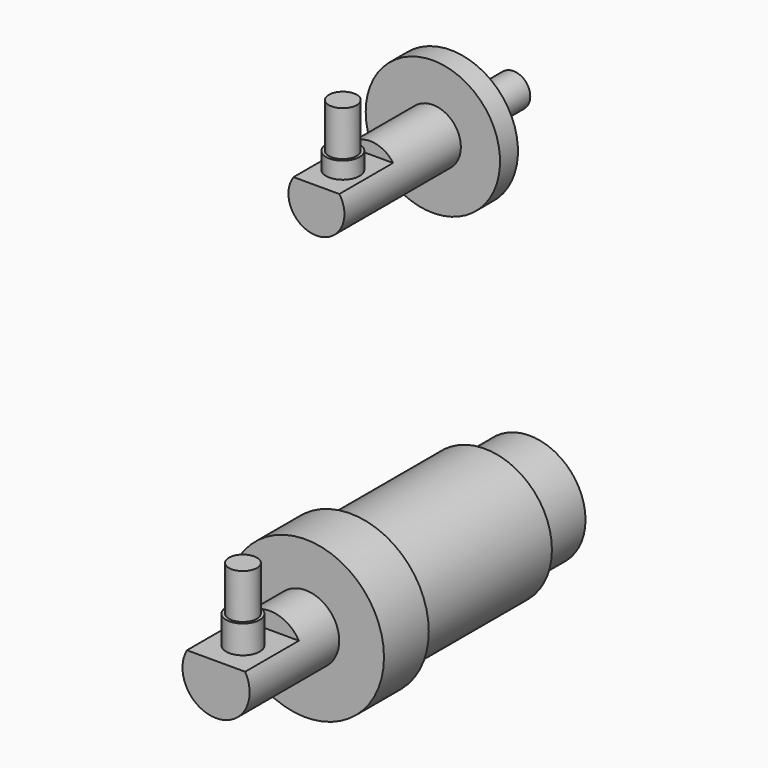
from build123d import *

# Parameters (mm, degrees)
F0_R      = 1.5
F1_DEPTH  = 7
F2_R      = 2.5
F2_R_2    = 1.5
F3_DEPTH  = 15
F5_DEPTH  = 6
F6_R      = 1.5
F7_DEPTH  = 1.5
F8_R      = 1.25
F9_DEPTH  = 4
F10_R     = 5
F11_DEPTH = 5
F12_R     = 6
F12_R_2   = 5
F13_DEPTH = 15
F14_R     = 7
F14_R_2   = 6
F15_DEPTH = 5
F16_R     = 3
F17_DEPTH = 10
F19_DEPTH = 6
F20_R     = 1.5
F21_DEPTH = 2.5
F22_R     = 1.25
F23_DEPTH = 4
F24_R     = 1.55
F25_DEPTH = 10
F26_R     = 6
F27_DEPTH = 2


with BuildPart() as f1:
    # F0 (on Front) → F1 (new body)
    with BuildSketch(Plane.XZ):
        with Locations((-5.523831, 39.233364)):
            Circle(F0_R)
    extrude(amount=F1_DEPTH)

    # F2 (on face) → F3 (join)
    with BuildSketch(Plane.XZ.offset(7)):
        with Locations((-5.523831, 39.233364)):
            Circle(F2_R)
        with Locations((-5.523831, 39.233364)):
            Circle(F2_R_2, mode=Mode.SUBTRACT)
        with Locations((-5.523831, 39.233364)):
            Circle(F2_R_2)
    extrude(amount=F3_DEPTH)

    # F4 (on face) → F5 (cut)
    with BuildSketch(Plane.XZ.offset(22)):
        with BuildLine():
            ThreePointArc((-3.478991, 40.671638), (-5.523831, 41.733364), (-7.568671, 40.671638))
            Line((-7.568671, 40.671638), (-3.478991, 40.671638))
        make_face()
    extrude(amount=-F5_DEPTH, mode=Mode.SUBTRACT)

    # F6 (on face) → F7 (join)
    with BuildSketch(Plane.XY.offset(40.671638)):
        with Locations((-5.568671, -19)):
            Circle(F6_R)
    extrude(amount=F7_DEPTH)

    # F8 (on face) → F9 (join)
    with BuildSketch(Plane.XY.offset(42.171638)):
        with Locations((-5.568671, -19)):
            Circle(F8_R)
    extrude(amount=F9_DEPTH)

    # F26 (on face) → F27 (join)
    with BuildSketch(Plane(origin=(0, -7, 0), x_dir=(-1, 0, 0), z_dir=(0, 1, 0))):
        with Locations((5.523831, 39.233364)):
            Circle(F26_R)
    extrude(amount=-F27_DEPTH)


with BuildPart() as f11:
    # F10 (on Front) → F11 (new body)
    with BuildSketch(Plane.XZ):
        with Locations((-4.090371, 7.537527)):
            Circle(F10_R)
    extrude(amount=F11_DEPTH)

    # F12 (on face) → F13 (join)
    with BuildSketch(Plane.XZ.offset(5)):
        with Locations((-4.090371, 7.537527)):
            Circle(F12_R)
        with Locations((-4.090371, 7.537527)):
            Circle(F12_R_2, mode=Mode.SUBTRACT)
        with Locations((-4.090371, 7.537527)):
            Circle(F12_R_2)
    extrude(amount=F13_DEPTH)

    # F14 (on face) → F15 (join)
    with BuildSketch(Plane.XZ.offset(20)):
        with Locations((-4.090371, 7.537527)):
            Circle(F14_R)
        with Locations((-4.090371, 7.537527)):
            Circle(F14_R_2, mode=Mode.SUBTRACT)
        with Locations((-4.090371, 7.537527)):
            Circle(F14_R_2)
    extrude(amount=F15_DEPTH)

    # F16 (on face) → F17 (join)
    with BuildSketch(Plane.XZ.offset(25)):
        with Locations((-4.090371, 7.537527)):
            Circle(F16_R)
    extrude(amount=F17_DEPTH)

    # F18 (on face) → F19 (cut)
    with BuildSketch(Plane.XZ.offset(35)):
        with BuildLine():
            ThreePointArc((-1.491391, 9.035961), (-4.090371, 10.537527), (-6.689351, 9.035961))
            Line((-6.689351, 9.035961), (-1.491391, 9.035961))
        make_face()
    extrude(amount=-F19_DEPTH, mode=Mode.SUBTRACT)

    # F20 (on face) → F21 (join)
    with BuildSketch(Plane.XY.offset(9.035961)):
        with Locations((-4.090371, -32)):
            Circle(F20_R)
    extrude(amount=F21_DEPTH)

    # F22 (on face) → F23 (join)
    with BuildSketch(Plane.XY.offset(11.535961)):
        with Locations((-4.090371, -32)):
            Circle(F22_R)
    extrude(amount=F23_DEPTH)

    # F24 (on face) → F25 (cut)
    with BuildSketch(Plane(origin=(0, 0, 0), x_dir=(-1, 0, 0), z_dir=(0, 1, 0))):
        with Locations((4.090371, 7.537527)):
            Circle(F24_R)
    extrude(amount=-F25_DEPTH, mode=Mode.SUBTRACT)


solid = Compound([f1.part, f11.part])
